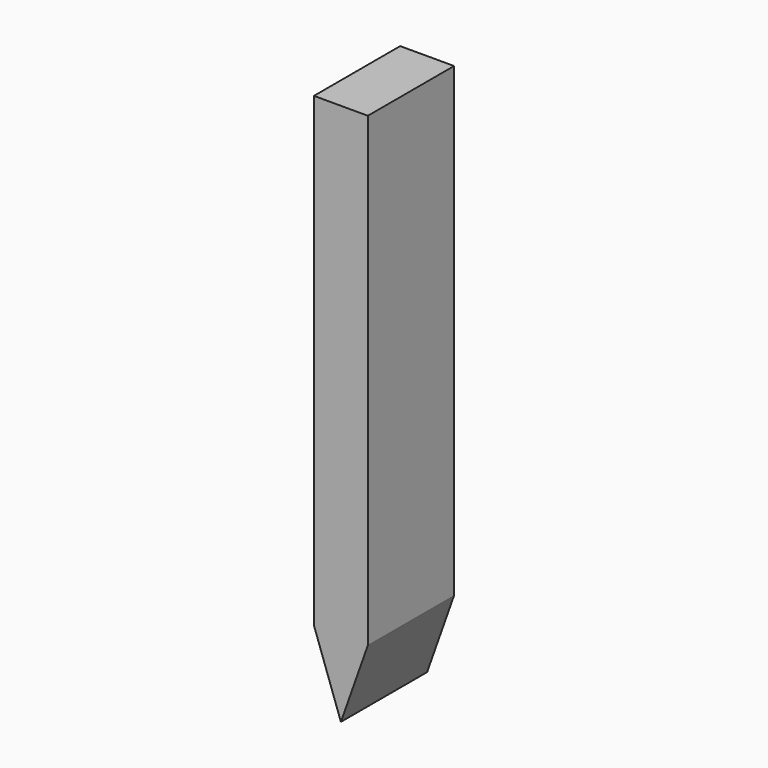
from build123d import *

# Parameters (mm, degrees)
F0_W     = 12.7
F0_H     = 101.6
F0_H_2   = 8.27383
F1_DEPTH = 25.4


with BuildPart() as f1:
    # F0 (on Front) → F1 (new body)
    with BuildSketch(Plane.XZ):
        with Locations((-44.412043, 9.539394)):
            Rectangle(F0_W, F0_H)
        with Locations((-44.412043, 64.476309)):
            Rectangle(F0_W, F0_H_2)
        Polygon((-38.062043, -41.260606), (-50.762043, -41.260606), (-44.412043, -59.221119), align=None)
    extrude(amount=F1_DEPTH)


solid = f1.part
